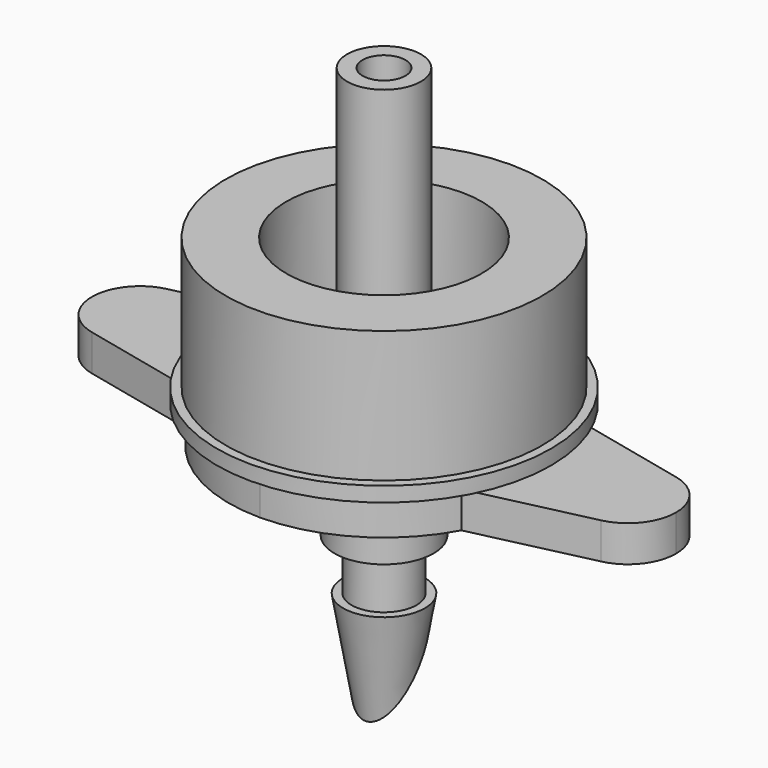
from build123d import *

# Parameters (mm, degrees)
PAD_DEPTH         = 2.45
POCKET_DEPTH      = 19.751
POCKET_DEPTH_BACK = 19.751
SKETCH003_W       = 8.825
SKETCH003_H       = 10.9


with BuildPart() as body001:
    # Sketch005 → Revolution002 (revolve)
    with BuildSketch(Plane.YZ):
        Polygon((11.3, 0), (11.3, 1), (10.7, 1), (10.7, 9.9), (6.6, 9.9), (6.6, 3), (2.5, 3), (2.5, 20), (1.45, 20), (1.45, 2.5), (7, -0.6), (7, 8.85), (9.5, 8.85), (9.5, 0), align=None)
    revolve(axis=Axis((0, 0, 0), (0, 0, 1)))


with BuildPart() as body001_1:
    # Body001 placement: moved
    add(body001.part.moved(Location((0, 0, 2.5))))


with BuildPart() as body:
    # Binder → Pad (new body)
    with BuildSketch(Plane(origin=(0, 0, 0), x_dir=(0, 1, 0), z_dir=(0, 0, 1))):
        with BuildLine():
            Line((5, 9.233093), (3.167844, 17.22613))
            ThreePointArc((3.167844, 17.22613), (2.025164, 19.041891), (0, 19.75))
            ThreePointArc((0, 19.75), (-2.025164, 19.041891), (-3.167844, 17.22613))
            Line((-3.167844, 17.22613), (-5, 9.233093))
            ThreePointArc((-5, 9.233093), (-9.020809, 5.373546), (-10.5, 0))
            ThreePointArc((-10.5, 0), (-9.020809, -5.373546), (-5, -9.233093))
            Line((-5, -9.233093), (-3.167844, -17.22613))
            ThreePointArc((-3.167844, -17.22613), (-2.025164, -19.041891), (0, -19.75))
            ThreePointArc((0, -19.75), (2.025164, -19.041891), (3.167844, -17.22613))
            Line((3.167844, -17.22613), (5, -9.233093))
            ThreePointArc((5, -9.233093), (9.020809, -5.373546), (10.5, 0))
            ThreePointArc((10.5, 0), (9.020809, 5.373546), (5, 9.233093))
        make_face()
    extrude(amount=PAD_DEPTH)

    # Sketch001 → Revolution (revolve)
    with BuildSketch(Plane.XZ):
        Polygon((1.15, 0), (1.15, -18.161238), (2.765, -8.77), (2.2, -8.77), (2.2, -5.32), (3.35, -5.32), (3.35, -3.66), (2.65, -3.66), (2.65, 0), align=None)
    revolve(axis=Axis((0, 0, 0), (0, 0, 1)))

    # Sketch002 → Pocket (cut, two sides)
    with BuildSketch(Plane.YZ) as pocket_sk:
        Polygon((1.15, -18.161238), (2.765, -8.77), (-3.057398, -18.161238), align=None)
    extrude(amount=-POCKET_DEPTH, mode=Mode.SUBTRACT)
    extrude(pocket_sk.sketch, amount=POCKET_DEPTH_BACK, mode=Mode.SUBTRACT)

    # Sketch003 → Revolution001 (revolve)
    with BuildSketch(Plane.YZ):
        with Locations((4.4125, 5.45)):
            Rectangle(SKETCH003_W, SKETCH003_H)
    revolve(axis=Axis((0, 0, 0), (0, 0, 1)))

    # Sketch004 → Groove (revolve, cut)
    with BuildSketch(Plane.YZ):
        Polygon((7.75, 10.9), (0, 10.9), (0, 1.5), (7.25, 1.5), (7.25, 2.5), (7.75, 4), align=None)
    revolve(axis=Axis((0, 0, 0), (0, 0, 1)), mode=Mode.SUBTRACT)


solid = Compound([body001_1.part, body.part])
